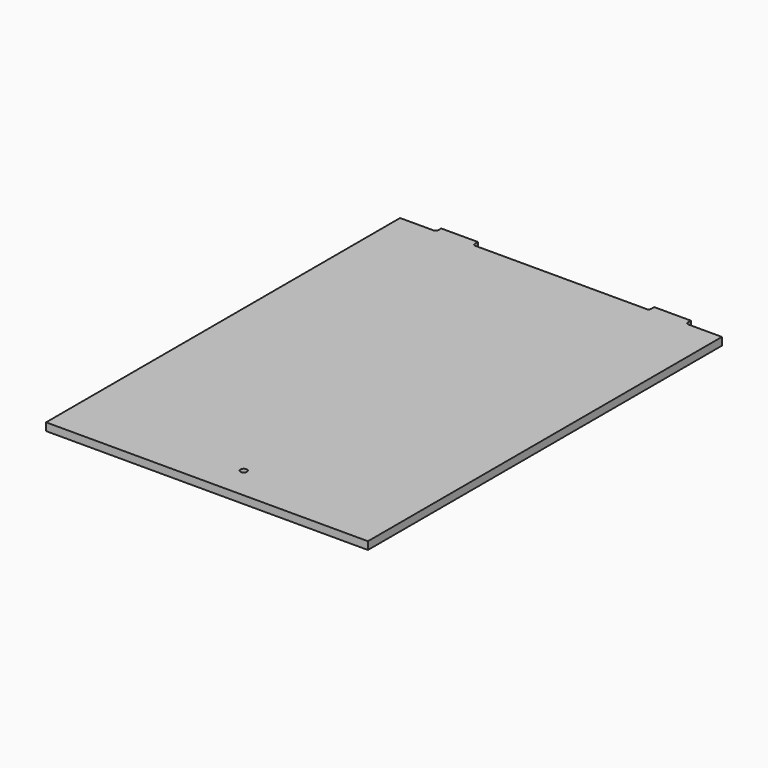
from build123d import *

# Parameters (mm, degrees)
F0_R     = 1.25
F0_W     = 14.2
F0_H     = 2.45
F1_DEPTH = 3
F2_R     = 1


with BuildPart() as f1:
    # F0 (on Top) → F1 (new body)
    with BuildSketch(Plane.XY):
        Polygon((62.375, -85.75), (62.375, 85.75), (48.375, 85.75), (34.175, 85.75), (-34.175, 85.75), (-48.375, 85.75), (-62.375, 85.75), (-62.375, -85.75), align=None)
        with Locations((4.125, -73.1)):
            Circle(F0_R, mode=Mode.SUBTRACT)
        with Locations((41.275, 86.975)):
            Rectangle(F0_W, F0_H)
        with Locations((-41.275, 86.975)):
            Rectangle(F0_W, F0_H)
        Polygon((62.375, -85.75), (62.375, 85.75), (48.375, 85.75), (34.175, 85.75), (-34.175, 85.75), (-48.375, 85.75), (-62.375, 85.75), (-62.375, -85.75), align=None)
        with Locations((4.125, -73.1)):
            Circle(F0_R, mode=Mode.SUBTRACT)
    extrude(amount=F1_DEPTH)

    # F2
    f2_edges = [f1.edges().sort_by_distance(p)[0] for p in [
        (-48.375, 85.75, 1.5),
        (-34.175, 85.75, 1.5),
        (48.375, 85.75, 1.5),
        (34.175, 85.75, 1.5),
    ]]
    fillet(f2_edges, radius=F2_R)


solid = f1.part
